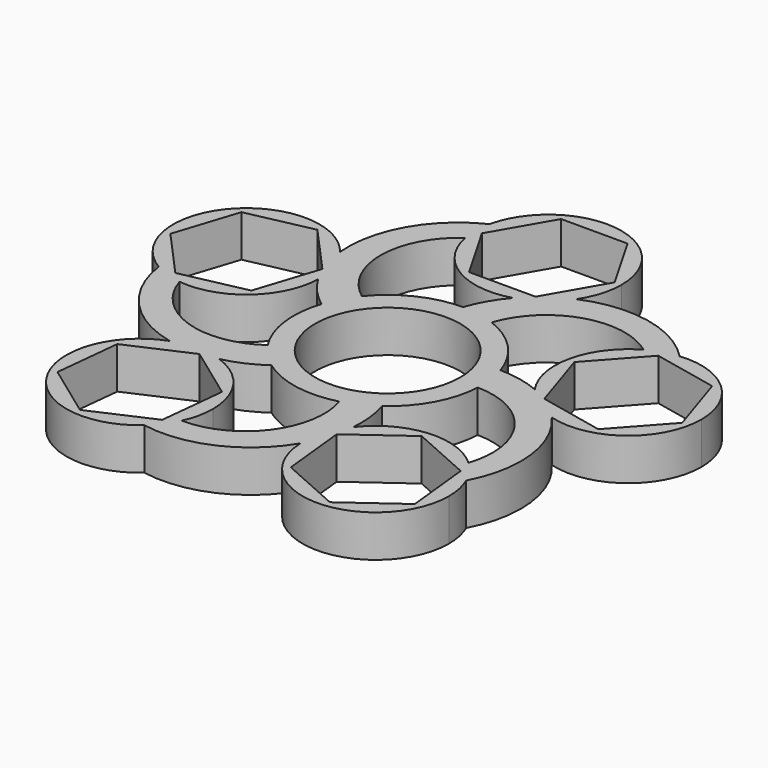
from build123d import *

# Parameters (mm, degrees)
F0_R     = 11.0236
F1_DEPTH = 6.35


with BuildPart() as f1:
    # F0 (on Top) → F1 (new body)
    with BuildSketch(Plane.XY):
        with BuildLine():
            ThreePointArc((-10.9013073569, 28.323810268), (-5.7416369548, 20.9657337998), (3.1731830809, 19.8301847253))
            ThreePointArc((3.1731830809, 19.8301847253), (5.9411817185, 22.3894795146), (9.2116796693, 24.2644860293))
            ThreePointArc((9.2116796693, 24.2644860293), (10.6266750815, 27.2301641638), (11.1125, 30.48))
            ThreePointArc((11.1125, 30.48), (1.2150273194, 41.5258754684), (-10.8468007628, 32.8954853473))
            ThreePointArc((-10.8468007628, 32.8954853473), (-11.1117102623, 30.6124813052), (-10.9013073569, 28.323810268))
        make_face()
        Polygon((10.0819790757, 30.48), (5.0409895379, 21.74875), (-5.0409895379, 21.74875), (-10.0819790757, 30.48), (-5.0409895379, 39.21125), (5.0409895379, 39.21125), align=None, mode=Mode.SUBTRACT)
        with BuildLine():
            ThreePointArc((-30.3062335558, -1.6152206797), (-21.7138611437, 1.0181468036), (-17.8790589041, 9.1457405282))
            ThreePointArc((-17.8790589041, 9.1457405282), (-19.4577342712, 12.5691292531), (-20.2303319881, 16.2589665183))
            ThreePointArc((-20.2303319881, 16.2589665183), (-37.3389530107, 16.7504560982), (-34.6373114666, -0.1506565358))
            ThreePointArc((-34.6373114666, -0.1506565358), (-32.5479071329, -1.1080874889), (-30.3062335558, -1.6152206797))
        make_face()
        Polygon((-22.2420418444, 1.9264674079), (-32.103705488, -0.1696939086), (-38.8498662602, 7.3226766721), (-35.7343633889, 16.9112085692), (-25.8726997453, 19.0073698857), (-19.1265389731, 11.514999305), align=None, mode=Mode.SUBTRACT)
        with BuildLine():
            ThreePointArc((-14.2230491705, -14.1778062266), (-11.1849106676, -13.1482774657), (-8.3989318902, -11.5581399608))
            ThreePointArc((-8.3989318902, -11.5581399608), (-10.3627655441, -9.835941568), (-11.980250366, -7.7850020821))
            ThreePointArc((-11.980250366, -7.7850020821), (-22.7179291909, -9.3773746133), (-30.3062335558, -1.6152206797))
            ThreePointArc((-30.3062335558, -1.6152206797), (-32.5479071329, -1.1080874889), (-34.6373114666, -0.1506565358))
            ThreePointArc((-34.6373114666, -0.1506565358), (-30.3789037171, -9.207206787), (-21.7147124417, -14.215892099))
            ThreePointArc((-21.7147124417, -14.215892099), (-17.9721871235, -13.5464815853), (-14.2230491705, -14.1778062266))
        make_face()
        with BuildLine():
            ThreePointArc((-13.5878570147, 4.4161972328), (-12.556806984, 6.8161025973), (-11.1060779195, 8.9881972328))
            ThreePointArc((-11.1060779195, 8.9881972328), (-15.9386394287, 18.7082664756), (-10.9013073569, 28.323810268))
            ThreePointArc((-10.9013073569, 28.323810268), (-11.1117102623, 30.6124813052), (-10.8468007628, 32.8954853473))
            ThreePointArc((-10.8468007628, 32.8954853473), (-18.1441715308, 26.0468709702), (-20.2303319881, 16.2589665183))
            ThreePointArc((-20.2303319881, 16.2589665183), (-18.4808363051, 13.0358684619), (-17.8757026167, 9.4188379885))
            ThreePointArc((-17.8757026167, 9.4188379885), (-17.8765417202, 9.2822789468), (-17.8790589041, 9.1457405282))
            ThreePointArc((-17.8790589041, 9.1457405282), (-15.9610824387, 6.5744409909), (-13.5878570147, 4.4161972328))
        make_face()
        with BuildLine():
            ThreePointArc((-20.2303319881, 16.2589665183), (-19.4577342712, 12.5691292531), (-17.8790589041, 9.1457405282))
            ThreePointArc((-17.8790589041, 9.1457405282), (-17.8765417202, 9.2822789468), (-17.8757026167, 9.4188379885))
            ThreePointArc((-17.8757026167, 9.4188379885), (-18.4808363051, 13.0358684619), (-20.2303319881, 16.2589665183))
        make_face()
        with BuildLine():
            ThreePointArc((0.0011744209, 14.2874999517), (2.6022320378, 14.0485246439), (5.1163167301, 13.3400134695))
            ThreePointArc((5.1163167301, 13.3400134695), (12.8673082895, 20.9397191658), (23.5688550875, 19.1202981162))
            ThreePointArc((23.5688550875, 19.1202981162), (25.6804925176, 20.0276414155), (27.933619926, 20.4811845569))
            ThreePointArc((27.933619926, 20.4811845569), (19.1651890134, 25.3050583472), (9.2116796693, 24.2644860293))
            ThreePointArc((9.2116796693, 24.2644860293), (6.5773827127, 21.5231203591), (3.1731830809, 19.8301847253))
            ThreePointArc((3.1731830809, 19.8301847253), (1.3204192232, 17.2115054551), (0.0011744209, 14.2874999517))
        make_face()
        with BuildLine():
            ThreePointArc((25.9234631172, -1.2626894327), (23.1295865065, 1.2683300774), (19.8401939006, 3.1099876352))
            ThreePointArc((19.8401939006, 3.1099876352), (22.5022269053, 0.3955472739), (25.9234631172, -1.2626894327))
        make_face()
        with BuildLine():
            ThreePointArc((13.5885828467, 4.4139633516), (14.1116890143, 2.2344774365), (14.2875, 0))
            ThreePointArc((14.2875, 0), (14.2826580685, -0.3719337948), (14.2681355559, -0.7436154983))
            ThreePointArc((14.2681355559, -0.7436154983), (23.8910732953, -5.7668083163), (25.4676608769, -16.5068161571))
            ThreePointArc((25.4676608769, -16.5068161571), (26.9831274861, -18.234718196), (28.1107273058, -20.2374171613))
            ThreePointArc((28.1107273058, -20.2374171613), (29.9889097419, -10.4074848243), (25.9234631172, -1.2626894327))
            ThreePointArc((25.9234631172, -1.2626894327), (22.5022269053, 0.3955472739), (19.8401939006, 3.1099876352))
            ThreePointArc((19.8401939006, 3.1099876352), (16.777146398, 4.0628543779), (13.5885828467, 4.4139633516))
        make_face()
        with BuildLine():
            ThreePointArc((23.5688550875, 19.1202981162), (18.1653343546, 11.9393892838), (19.8401939006, 3.1099876352))
            ThreePointArc((19.8401939006, 3.1099876352), (23.1295865065, 1.2683300774), (25.9234631172, -1.2626894327))
            ThreePointArc((25.9234631172, -1.2626894327), (35.6751577744, 0.5434626743), (40.1007026167, 9.4188379885))
            ThreePointArc((40.1007026167, 9.4188379885), (36.4637830657, 17.6409638207), (27.933619926, 20.4811845569))
            ThreePointArc((27.933619926, 20.4811845569), (25.6804925176, 20.0276414155), (23.5688550875, 19.1202981162))
        make_face()
        Polygon((19.1265389731, 11.514999305), (25.8726997453, 19.0073698857), (35.7343633889, 16.9112085692), (38.8498662602, 7.3226766721), (32.103705488, -0.1696939086), (22.2420418444, 1.9264674079), align=None, mode=Mode.SUBTRACT)
        with BuildLine():
            ThreePointArc((9.0887310931, -17.9081066622), (9.048427485, -14.7005233582), (8.3970316373, -11.5595205754))
            ThreePointArc((8.3970316373, -11.5595205754), (6.1522656603, -12.8950487977), (3.7018759995, -13.799593122))
            ThreePointArc((3.7018759995, -13.799593122), (1.8981870347, -24.5038027118), (-7.8289750516, -29.3220715473))
            ThreePointArc((-7.8289750516, -29.3220715473), (-9.0040026085, -31.2973170358), (-10.5602350025, -32.9885962071))
            ThreePointArc((-10.5602350025, -32.9885962071), (-0.6310235074, -31.737237706), (6.8099016433, -25.0448710159))
            ThreePointArc((6.8099016433, -25.0448710159), (7.3297583374, -21.2786586997), (9.0887310931, -17.9081066622))
        make_face()
        with BuildLine():
            ThreePointArc((-21.7147124417, -14.215892099), (-17.9667228421, -14.6213304272), (-14.2230491705, -14.1778062266))
            ThreePointArc((-14.2230491705, -14.1778062266), (-17.9721871235, -13.5464815853), (-21.7147124417, -14.215892099))
        make_face()
        with BuildLine():
            ThreePointArc((-10.5602350025, -32.9885962071), (-9.0040026085, -31.2973170358), (-7.8289750516, -29.3220715473))
            ThreePointArc((-7.8289750516, -29.3220715473), (-7.0626689668, -27.0461991355), (-6.8031944899, -24.6588379885))
            ThreePointArc((-6.8031944899, -24.6588379885), (-8.8459045981, -18.2380461706), (-14.2230491705, -14.1778062266))
            ThreePointArc((-14.2230491705, -14.1778062266), (-17.9667228421, -14.6213304272), (-21.7147124417, -14.215892099))
            ThreePointArc((-21.7147124417, -14.215892099), (-27.4690014556, -30.3352789746), (-10.5602350025, -32.9885962071))
        make_face()
        Polygon((-8.7053483012, -20.5581276637), (-9.7592020807, -30.5848766032), (-18.9695482694, -34.685586928), (-27.1260406785, -28.7595483134), (-26.0721868991, -18.7327993739), (-16.8618407104, -14.6320890491), align=None, mode=Mode.SUBTRACT)
        with BuildLine():
            ThreePointArc((6.8099016433, -25.0448710159), (8.3536888883, -21.6056084179), (9.0887310931, -17.9081066622))
            ThreePointArc((9.0887310931, -17.9081066622), (7.3297583374, -21.2786586997), (6.8099016433, -25.0448710159))
        make_face()
        with BuildLine():
            ThreePointArc((28.1107273058, -20.2374171613), (26.9831274861, -18.234718196), (25.4676608769, -16.5068161571))
            ThreePointArc((25.4676608769, -16.5068161571), (16.968431003, -13.5867854175), (9.0887310931, -17.9081066622))
            ThreePointArc((9.0887310931, -17.9081066622), (8.3536888883, -21.6056084179), (6.8099016433, -25.0448710159))
            ThreePointArc((6.8099016433, -25.0448710159), (18.1087401348, -35.7696610737), (29.0281944899, -24.6588379885))
            ThreePointArc((29.0281944899, -24.6588379885), (28.7964104226, -22.4010344007), (28.1107273058, -20.2374171613))
        make_face()
        Polygon((16.8618407104, -14.6320890491), (26.0721868991, -18.7327993739), (27.1260406785, -28.7595483134), (18.9695482694, -34.685586928), (9.7592020807, -30.5848766032), (8.7053483012, -20.5581276637), align=None, mode=Mode.SUBTRACT)
        with BuildLine():
            ThreePointArc((14.2681355559, -0.7436154983), (14.2826580685, -0.3719337948), (14.2875, 0))
            ThreePointArc((14.2875, 0), (14.1116890143, 2.2344774365), (13.5885828467, 4.4139633516))
            ThreePointArc((13.5885828467, 4.4139633516), (10.3627655441, 9.835941568), (5.1163167301, 13.3400134695))
            ThreePointArc((5.1163167301, 13.3400134695), (2.6022320378, 14.0485246439), (0.0011744209, 14.2874999517))
            ThreePointArc((0.0011744209, 14.2874999517), (-6.1522656603, 12.8950487977), (-11.1060779195, 8.9881972328))
            ThreePointArc((-11.1060779195, 8.9881972328), (-12.556806984, 6.8161025973), (-13.5878570147, 4.4161972328))
            ThreePointArc((-13.5878570147, 4.4161972328), (-14.1650748299, -1.8663631244), (-11.980250366, -7.7850020821))
            ThreePointArc((-11.980250366, -7.7850020821), (-10.3627655441, -9.835941568), (-8.3989318902, -11.5581399608))
            ThreePointArc((-8.3989318902, -11.5581399608), (-2.6022320378, -14.0485246439), (3.7018759995, -13.799593122))
            ThreePointArc((3.7018759995, -13.799593122), (6.1522656603, -12.8950487977), (8.3970316373, -11.5595205754))
            ThreePointArc((8.3970316373, -11.5595205754), (12.556806984, -6.8161025973), (14.2681355559, -0.7436154983))
        make_face()
        Circle(F0_R, mode=Mode.SUBTRACT)
        with BuildLine():
            ThreePointArc((9.2116796693, 24.2644860293), (5.9411817185, 22.3894795146), (3.1731830809, 19.8301847253))
            ThreePointArc((3.1731830809, 19.8301847253), (6.5773827127, 21.5231203591), (9.2116796693, 24.2644860293))
        make_face()
    extrude(amount=F1_DEPTH)


solid = f1.part
